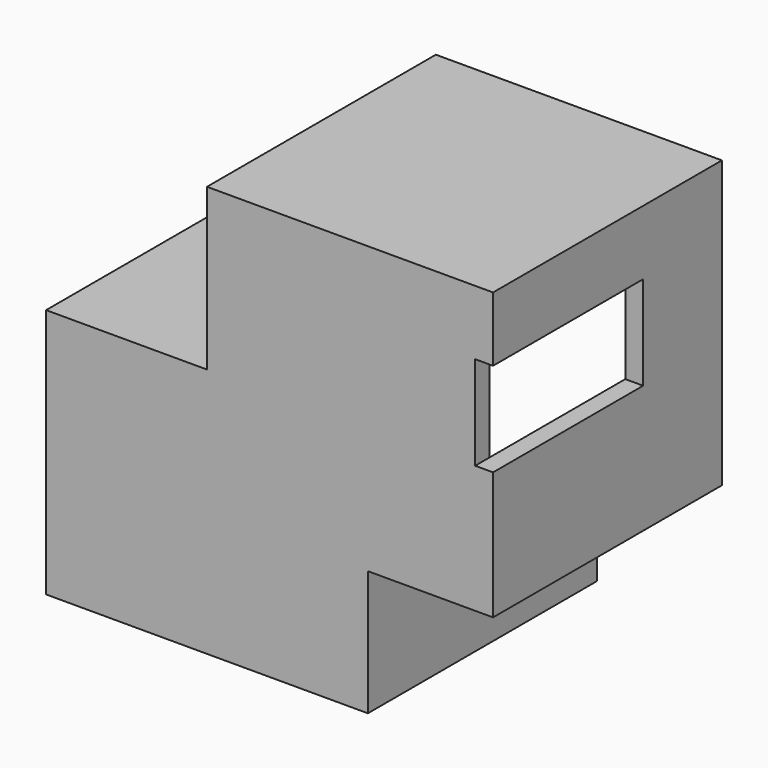
from build123d import *

# Parameters (mm, degrees)
F1_DEPTH = 2438.4
F2_T     = -152.4
F3_W     = 1599.2642339706
F3_H     = 799.5484024286
F4_DEPTH = 152.4


with BuildPart() as f1:
    # F0 (on Front) → F1 (new body)
    with BuildSketch(Plane.XZ):
        Polygon((152.4, -1219.2), (1219.2, -1219.2), (1219.2, 1219.2), (-1219.2, 1219.2), (-1219.2, -152.4), (-2590.8, -152.4), (-2590.8, -2286), (152.4, -2286), align=None)
    extrude(amount=F1_DEPTH)

    # F2
    f2_openings = [f1.faces().sort_by_distance(p)[0] for p in [
        (-614.908315, 0, -593.332584),
    ]]
    offset(amount=F2_T, openings=f2_openings, kind=Kind.INTERSECTION)

    # F3 (on face) → F4 (cut)
    with BuildSketch(Plane.YZ.offset(1219.2)):
        with Locations((-1638.7678830147, 268.9837738872)):
            Rectangle(F3_W, F3_H)
    extrude(amount=-F4_DEPTH, mode=Mode.SUBTRACT)


solid = f1.part
